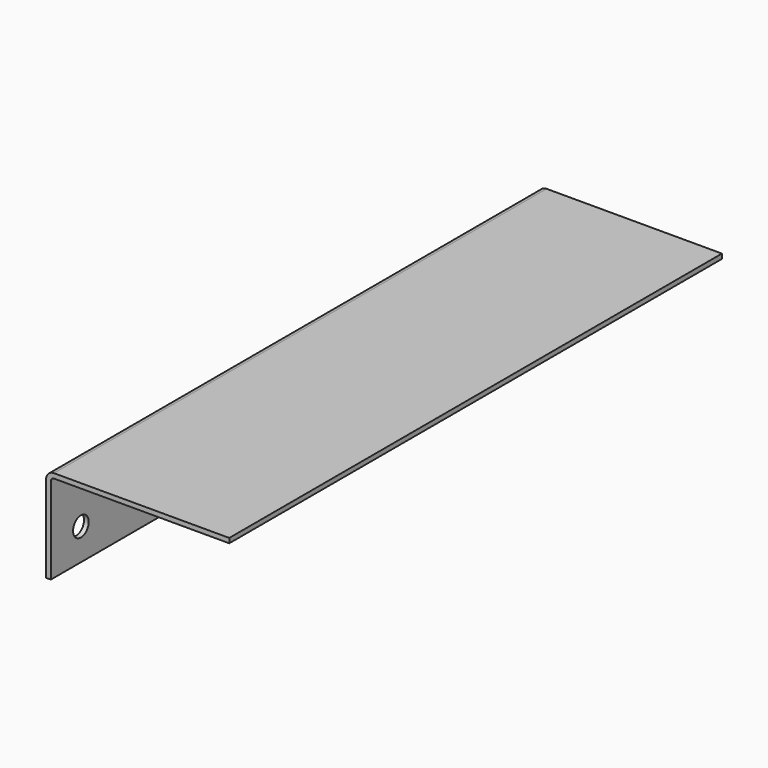
from build123d import *

# Parameters (mm, degrees)
F1_DEPTH = 97.5
F2_R     = 3.1
F3_DEPTH = 25
F4_R     = 2.5
F5_R     = 1


with BuildPart() as f1:
    # F0 (on Front) → F1 (new body, symmetric)
    with BuildSketch(Plane.XZ):
        Polygon((0, 30), (0, 0), (1.5, 0), (1.5, 28.5), (58, 28.5), (58, 30), align=None)
    extrude(amount=F1_DEPTH, both=True)

    # F2 (on face) → F3 (cut)
    with BuildSketch(Plane(origin=(0, 0, 0), x_dir=(0, -1, 0), z_dir=(-1, 0, 0))):
        with Locations((-85.6, 10)):
            Circle(F2_R)
        with Locations((85.6, 10)):
            Circle(F2_R)
    extrude(amount=-F3_DEPTH, mode=Mode.SUBTRACT)

    # F4
    f4_edges = [f1.edges().sort_by_distance(p)[0] for p in [
        (0, 0, 30),
    ]]
    fillet(f4_edges, radius=F4_R)

    # F5
    f5_edges = [f1.edges().sort_by_distance(p)[0] for p in [
        (1.5, 0, 28.5),
    ]]
    fillet(f5_edges, radius=F5_R)


solid = f1.part
